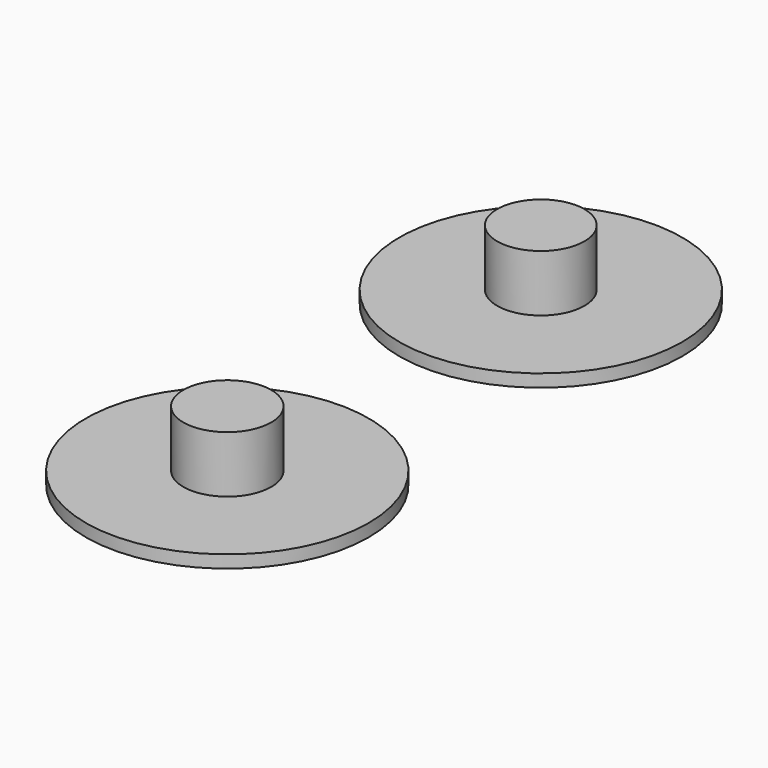
from build123d import *

# Parameters (mm, degrees)
F0_R     = 11.219938
F0_R_2   = 11.220946
F1_DEPTH = 1
F2_R     = 3.460508
F2_R_2   = 3.485867
F3_DEPTH = 4.5


with BuildPart() as f1:
    # F0 (on Top) → F1 (new body)
    with BuildSketch(Plane.XY):
        Circle(F0_R)
        with Locations((0, -31.065904)):
            Circle(F0_R_2)
    extrude(amount=F1_DEPTH)


with BuildPart() as f3:
    # F2 (on face) → F3 (new body)
    with BuildSketch(Plane.XY.offset(1)):
        Circle(F2_R)
        with Locations((0, -31.065863)):
            Circle(F2_R_2)
    extrude(amount=F3_DEPTH)


solid = Compound([f1.part, f3.part])
